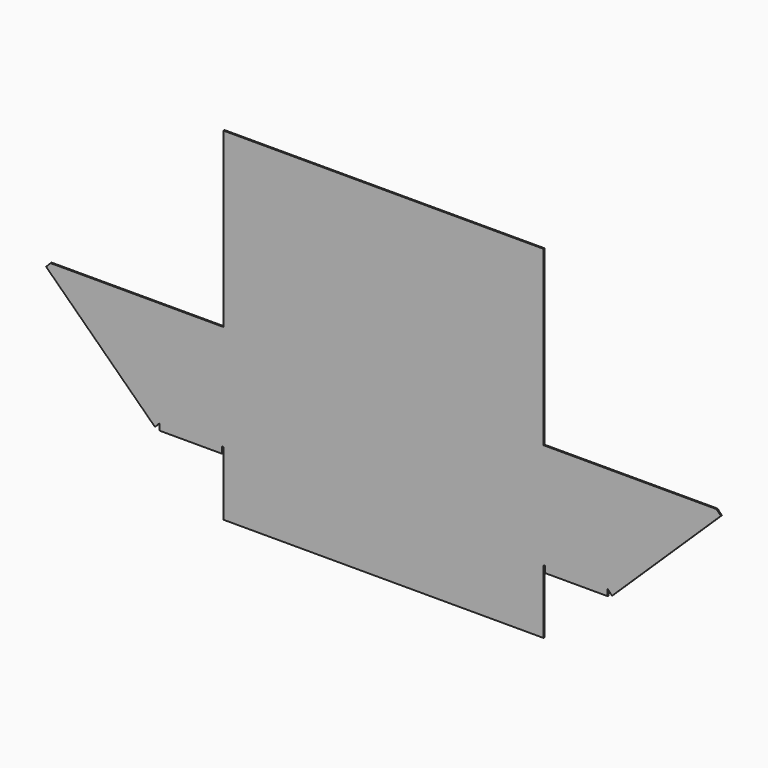
from build123d import *

# Parameters (mm, degrees)
F0_W     = 50
F0_H     = 27
F0_H_2   = 16.5
F0_H_3   = 10
F0_W_2   = 9.75
F0_H_4   = 1
F1_DEPTH = 0.2


with BuildPart() as f1:
    # F0 (on Front) → F1 (new body)
    with BuildSketch(Plane.XZ):
        with Locations((0, 21.75)):
            Rectangle(F0_W, F0_H)
        Rectangle(F0_W, F0_H_2)
        Polygon((-25, -8.25), (-25, 8.25), (-52, 8.25), (-35, -8.25), (-25.25, -8.25), align=None)
        Polygon((52, 8.25), (25, 8.25), (25, -8.25), (25.25, -8.25), (35, -8.25), align=None)
        with Locations((0, -13.25)):
            Rectangle(F0_W, F0_H_3)
        Polygon((-35, -8.25), (-52, 8.25), (-52.6964753772, 7.5324193084), (-35.6964753772, -8.9675806916), align=None)
        Polygon((52.6964753772, 7.5324193084), (52, 8.25), (35, -8.25), (35.6964753772, -8.9675806916), align=None)
        with Locations((-30.125, -8.75)):
            Rectangle(F0_W_2, F0_H_4)
        with Locations((30.125, -8.75)):
            Rectangle(F0_W_2, F0_H_4)
    extrude(amount=F1_DEPTH)


solid = f1.part
